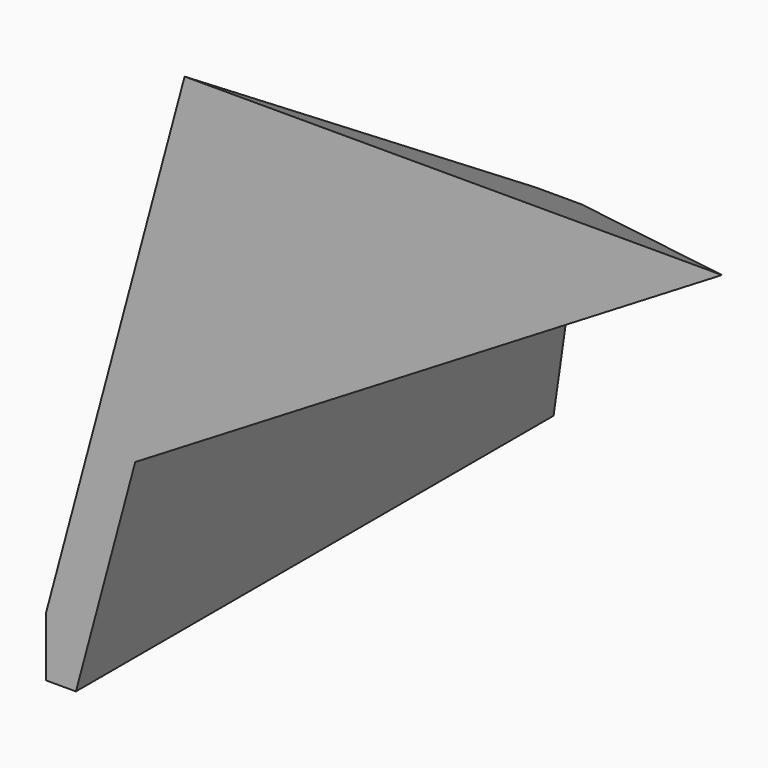
from build123d import *

# Parameters (mm, degrees)
PAD_DEPTH       = 50
POCKET_DEPTH    = 5
PAD001_DEPTH    = 50
POCKET002_DEPTH = 80
POCKET003_DEPTH = 100


with BuildPart() as part:
    # Sketch → Pad (new body)
    with BuildSketch(Plane.XZ):
        Polygon((0, 5), (12.940952, 53.296291), (15.440949, 48.296292), (2.5, 0), (0, 0), align=None)
    extrude(amount=PAD_DEPTH)

    # Sketch001 (on Face3 of Pad) → Pocket (cut)
    with BuildSketch(Plane(origin=(-1.25, 0, 0.334936), x_dir=(-0.258819, 0, -0.965926), z_dir=(-0.965926, 0, 0.258819))):
        Polygon((-54.829629, 0), (-54.829629, 50), (-19.829629, 50), (-49.652199, 0), align=None)
    extrude(amount=-POCKET_DEPTH, mode=Mode.SUBTRACT)

    # Sketch002 → Pad001 (join)
    with BuildSketch(Plane.XZ):
        Polygon((11.600935, 48.295278), (3.882286, 19.488887), (7.464816, 18.528951), (56.600935, 18.528951), (56.600935, 48.295278), align=None)
    extrude(amount=PAD001_DEPTH)

    # Sketch005 → Pocket002 (cut)
    with BuildSketch(Plane.YZ):
        Polygon((0, 48.295278), (0, 0), (-3.267149, 18.528951), (-50, 48.295278), align=None)
    extrude(amount=POCKET002_DEPTH, mode=Mode.SUBTRACT)

    # Sketch007 → Pocket003 (cut)
    with BuildSketch(Plane.XZ):
        Polygon((7.464816, 18.528951), (56.600935, 18.528951), (56.600935, 48.295278), align=None)
    extrude(amount=POCKET003_DEPTH, mode=Mode.SUBTRACT)


solid = part.part
